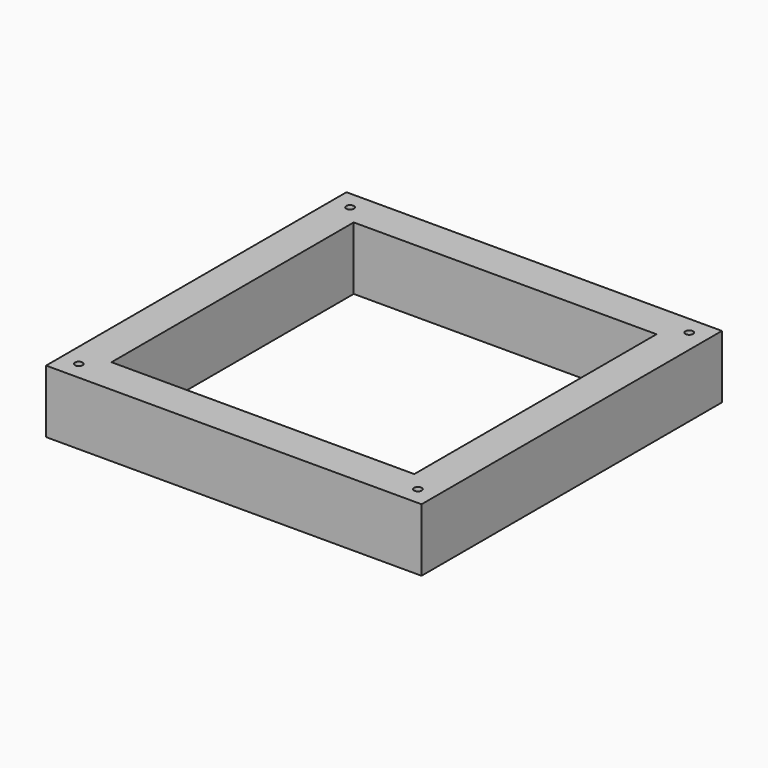
from build123d import *

# Parameters (mm, degrees)
SKETCH001_R      = 2
EXTRUDE001_DEPTH = 40
SKETCH_W         = 196.85
SKETCH_H         = 196.85
SKETCH_W_2       = 158.75
SKETCH_H_2       = 158.75
EXTRUDE_DEPTH    = 33.02


with BuildPart() as extrude001:
    # Sketch001 (on Face10 of Extrude) → Extrude001 (new body)
    with BuildSketch(Plane.XY.offset(33.02)):
        with Locations((9.525, 187.325)):
            Circle(SKETCH001_R)
        with Locations((187.325, 187.325)):
            Circle(SKETCH001_R)
        with Locations((187.325, 9.525)):
            Circle(SKETCH001_R)
        with Locations((9.525, 9.525)):
            Circle(SKETCH001_R)
    extrude(amount=-EXTRUDE001_DEPTH)


with BuildPart() as wall:
    # Sketch → Extrude (new body)
    with BuildSketch(Plane.XY):
        with Locations((98.425, 98.425)):
            Rectangle(SKETCH_W, SKETCH_H)
        with Locations((98.425, 98.425)):
            Rectangle(SKETCH_W_2, SKETCH_H_2, mode=Mode.SUBTRACT)
    extrude(amount=EXTRUDE_DEPTH)

    # Cut: cut Extrude001
    add(extrude001.part, mode=Mode.SUBTRACT)


solid = wall.part
